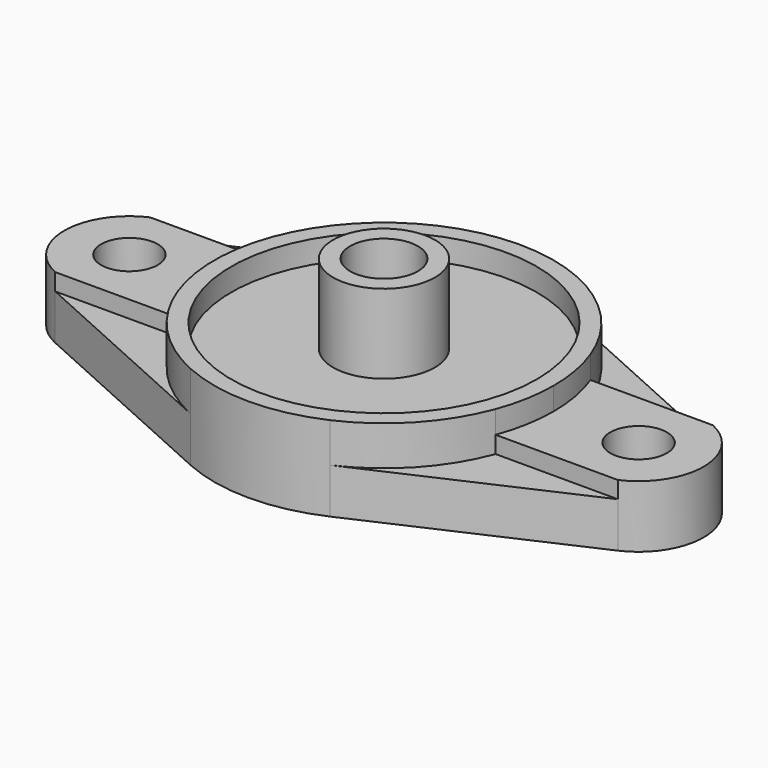
from build123d import *

# Parameters (mm, degrees)
F0_R     = 5
F1_DEPTH = 11
F0_R_2   = 27
F2_DEPTH = 15
F0_R_3   = 9
F3_DEPTH = 11
F0_R_4   = 6
F4_DEPTH = 25
F5_DEPTH = 8


with BuildPart() as f1:
    # F0 (on Top) → F1 (new body)
    with BuildSketch(Plane.XY):
        with BuildLine():
            ThreePointArc((-28.108751, -10.48323), (-30, 0), (-28.108751, 10.48323))
            Line((-28.108751, 10.48323), (-49.727778, 10.48323))
            ThreePointArc((-49.727778, 10.48323), (-56.5, 0), (-49.727778, -10.48323))
            Line((-49.727778, -10.48323), (-28.108751, -10.48323))
        make_face()
        with Locations((-45, 0)):
            Circle(F0_R, mode=Mode.SUBTRACT)
        with BuildLine():
            ThreePointArc((28.108751, 10.48323), (29.523402, 5.326231), (30, 0))
            ThreePointArc((30, 0), (29.523402, -5.326231), (28.108751, -10.48323))
            Line((28.108751, -10.48323), (49.727778, -10.48323))
            ThreePointArc((49.727778, -10.48323), (56.5, 0), (49.727778, 10.48323))
            Line((49.727778, 10.48323), (28.108751, 10.48323))
        make_face()
        with Locations((45, 0)):
            Circle(F0_R, mode=Mode.SUBTRACT)
    extrude(amount=F1_DEPTH)

    # F0 (on Top) → F2 (join)
    with BuildSketch(Plane.XY):
        with BuildLine():
            ThreePointArc((28.108751, -10.48323), (29.523402, -5.326231), (30, 0))
            ThreePointArc((30, 0), (29.523402, 5.326231), (28.108751, 10.48323))
            ThreePointArc((28.108751, 10.48323), (21.908718, 20.494098), (12.333333, 27.347557))
            ThreePointArc((12.333333, 27.347557), (0, 30), (-12.333333, 27.347557))
            ThreePointArc((-12.333333, 27.347557), (-21.908718, 20.494098), (-28.108751, 10.48323))
            ThreePointArc((-28.108751, 10.48323), (-30, 0), (-28.108751, -10.48323))
            ThreePointArc((-28.108751, -10.48323), (-21.908718, -20.494098), (-12.333333, -27.347557))
            ThreePointArc((-12.333333, -27.347557), (0, -30), (12.333333, -27.347557))
            ThreePointArc((12.333333, -27.347557), (21.908718, -20.494098), (28.108751, -10.48323))
        make_face()
        Circle(F0_R_2, mode=Mode.SUBTRACT)
    extrude(amount=F2_DEPTH)

    # F0 (on Top) → F3 (join)
    with BuildSketch(Plane.XY):
        Circle(F0_R_2)
        Circle(F0_R_3, mode=Mode.SUBTRACT)
    extrude(amount=F3_DEPTH)

    # F0 (on Top) → F4 (join)
    with BuildSketch(Plane.XY):
        Circle(F0_R_3)
        Circle(F0_R_4, mode=Mode.SUBTRACT)
    extrude(amount=F4_DEPTH)

    # F0 (on Top) → F5 (join)
    with BuildSketch(Plane.XY):
        with BuildLine():
            Line((-49.727778, -10.48323), (-12.333333, -27.347557))
            ThreePointArc((-12.333333, -27.347557), (-21.908718, -20.494098), (-28.108751, -10.48323))
            Line((-28.108751, -10.48323), (-49.727778, -10.48323))
        make_face()
        with BuildLine():
            Line((49.727778, -10.48323), (28.108751, -10.48323))
            ThreePointArc((28.108751, -10.48323), (21.908718, -20.494098), (12.333333, -27.347557))
            Line((12.333333, -27.347557), (49.727778, -10.48323))
        make_face()
        with BuildLine():
            ThreePointArc((-28.108751, 10.48323), (-21.908718, 20.494098), (-12.333333, 27.347557))
            Line((-12.333333, 27.347557), (-49.727778, 10.48323))
            Line((-49.727778, 10.48323), (-28.108751, 10.48323))
        make_face()
        with BuildLine():
            ThreePointArc((12.333333, 27.347557), (21.908718, 20.494098), (28.108751, 10.48323))
            Line((28.108751, 10.48323), (49.727778, 10.48323))
            Line((49.727778, 10.48323), (12.333333, 27.347557))
        make_face()
    extrude(amount=F5_DEPTH)


solid = f1.part
